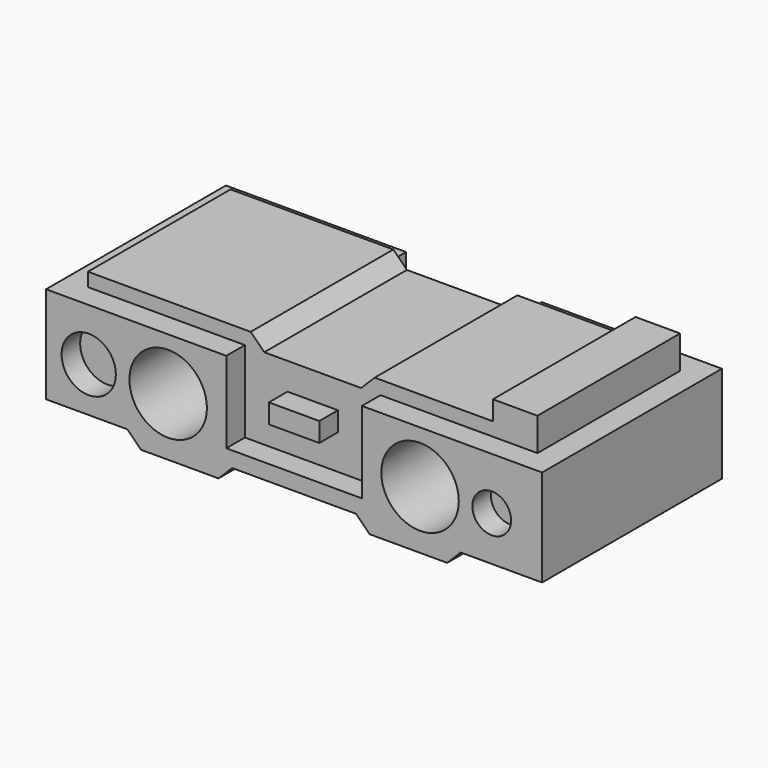
from build123d import *

# Parameters (mm, degrees)
SKETCH040_R     = 1
PAD029_DEPTH    = 2.9
SKETCH044_R     = 0.7
SKETCH044_R_2   = 0.5
SKETCH044_W     = 1.3
SKETCH044_H     = 0.5
POCKET017_DEPTH = 0.6
SKETCH045_R     = 0.7
SKETCH045_W     = 1.3
SKETCH045_H     = 0.5
POCKET018_DEPTH = 0.6


with BuildPart() as part:
    # Sketch040 → Pad029 (new body, symmetric)
    with BuildSketch(Plane.XZ):
        Polygon((-6.4, -1.15), (-4.3, -1.15), (-3.95, -1.5), (-1.95, -1.5), (-1.6, -1.15), (1.6, -1.15), (1.95, -1.5), (3.95, -1.5), (4.3, -1.15), (6.4, -1.15), (6.4, 1.35), (5.8, 1.35), (5.8, 2.2), (4.65, 2.2), (4.65, 1.7), (1.6, 1.7), (1.25, 1.35), (-1.25, 1.35), (-1.6, 1.7), (-5.8, 1.7), (-5.8, 1.35), (-6.4, 1.35), align=None)
        with Locations((-3.25, 0)):
            Circle(SKETCH040_R, mode=Mode.SUBTRACT)
        with Locations((3.25, 0)):
            Circle(SKETCH040_R, mode=Mode.SUBTRACT)
    extrude(amount=PAD029_DEPTH, both=True)

    # Sketch044 (on Face26 of Pad029) → Pocket017 (cut)
    with BuildSketch(Plane.XZ.offset(2.9)):
        with Locations((-5.3, 0)):
            Circle(SKETCH044_R)
        with Locations((5.1, 0)):
            Circle(SKETCH044_R_2)
        Polygon((1.75, 1.35), (1.75, -0.75), (-1.75, -0.75), (-1.75, 1.35), (-6.4, 1.35), (-6.4, 2.2), (6.4, 2.2), (6.4, 1.35), align=None)
        with Locations((0, 0.4)):
            Rectangle(SKETCH044_W, SKETCH044_H, mode=Mode.SUBTRACT)
    extrude(amount=-POCKET017_DEPTH, mode=Mode.SUBTRACT)

    # Sketch045 (on Face4 of Pocket017) → Pocket018 (cut)
    with BuildSketch(Plane(origin=(0, 2.9, 0), x_dir=(1, 0, 0), z_dir=(0, 1, 0))):
        with Locations((5.3, 0)):
            Circle(SKETCH045_R)
        with Locations((-5.3, 0)):
            Circle(SKETCH045_R)
        Polygon((1.75, 0.75), (-1.75, 0.75), (-1.75, -1.35), (-6.4, -1.35), (-6.4, -2.2), (6.4, -2.2), (6.4, -1.35), (1.75, -1.35), align=None)
        with Locations((0, -0.4)):
            Rectangle(SKETCH045_W, SKETCH045_H, mode=Mode.SUBTRACT)
    extrude(amount=-POCKET018_DEPTH, mode=Mode.SUBTRACT)


solid = part.part
